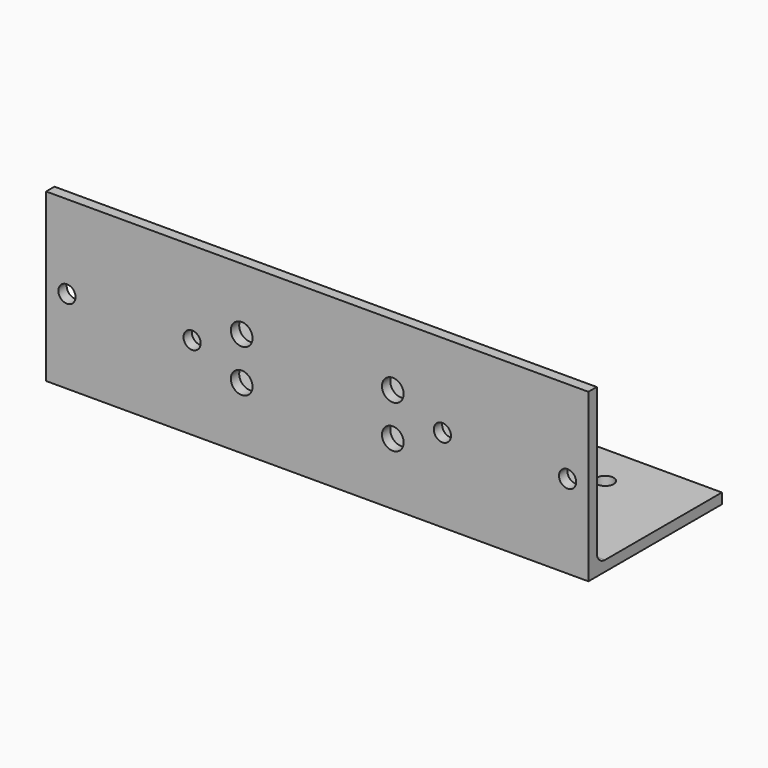
from build123d import *

# Parameters (mm, degrees)
F1_DEPTH = 165.1
F2_R     = 2.6162
F2_R_2   = 3.302
F3_DEPTH = 50.801
F4_R     = 2.6162
F5_DEPTH = 25.4


with BuildPart() as f1:
    # F0 (on Right) → F1 (new body)
    with BuildSketch(Plane.YZ):
        with BuildLine():
            Line((0, -44.45), (0, 0))
            Line((0, 0), (-3.175, 0))
            Line((-3.175, 0), (-3.175, -50.8))
            Line((-3.175, -50.8), (47.625, -50.8))
            Line((47.625, -50.8), (47.625, -47.625))
            Line((47.625, -47.625), (3.175, -47.625))
            ThreePointArc((3.175, -47.625), (0.929936, -46.695064), (0, -44.45))
        make_face()
    extrude(amount=-F1_DEPTH)

    # F2 (on face) → F3 (cut, through all)
    with BuildSketch(Plane.XZ.offset(3.175)):
        with Locations((-158.75, -25.4)):
            Circle(F2_R)
        with Locations((-120.65, -25.4)):
            Circle(F2_R)
        with Locations((-44.45, -25.4)):
            Circle(F2_R)
        with Locations((-6.35, -25.4)):
            Circle(F2_R)
        with Locations((-59.5503, -31.9024)):
            Circle(F2_R_2)
        with Locations((-105.5497, -31.9024)):
            Circle(F2_R_2)
        with Locations((-59.5503, -18.8976)):
            Circle(F2_R_2)
        with Locations((-105.5497, -18.8976)):
            Circle(F2_R_2)
    extrude(amount=-F3_DEPTH, mode=Mode.SUBTRACT)

    # F4 (on face) → F5 (cut)
    with BuildSketch(Plane(origin=(0, 0, -50.8), x_dir=(1, 0, 0), z_dir=(0, 0, -1))):
        with Locations((-25.4, -34.925)):
            Circle(F4_R)
        with Locations((-25.4, -9.525)):
            Circle(F4_R)
        with Locations((-139.7, -34.925)):
            Circle(F4_R)
        with Locations((-139.7, -9.525)):
            Circle(F4_R)
    extrude(amount=-F5_DEPTH, mode=Mode.SUBTRACT)


solid = f1.part
